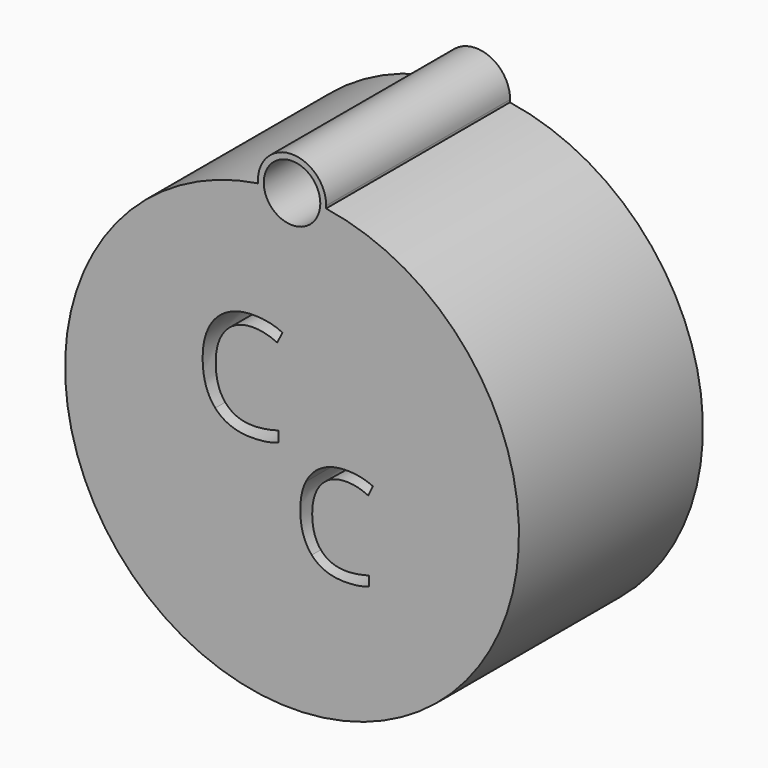
from build123d import *

# Parameters (mm, degrees)
F0_R     = 3.1220096901
F1_DEPTH = 25.4


with BuildPart() as f1:
    # F0 (on Front) → F1 (new body)
    with BuildSketch(Plane.XZ):
        with BuildLine():
            ThreePointArc((3.762887104, 24.7915036788), (0, 21.3018608193), (-3.762887104, 24.7915036788))
            ThreePointArc((-3.762887104, 24.7915036788), (0, -25.0754456394), (3.762887104, 24.7915036788))
        make_face()
        with BuildLine():
            add(Edge.make_bspline(
                [(8.4130730817, -1.6073568671), (7.2075554314, -1.0429237476), (6.0020377811, -1.0429237476)],
                knots=[0, 0, 0, 1, 1, 1], degree=2))
            add(Edge.make_bspline(
                [(6.0020377811, -1.0429237476), (4.2529919416, -1.0429237476), (3.2402642046, -2.2077929222)],
                knots=[0, 0, 0, 1, 1, 1], degree=2))
            add(Edge.make_bspline(
                [(3.2402642046, -2.2077929222), (2.2275364675, -3.3726620968), (2.2275364675, -5.3981175709)],
                knots=[0, 0, 0, 1, 1, 1], degree=2))
            add(Edge.make_bspline(
                [(2.2275364675, -5.3981175709), (2.2275364675, -7.479319526), (3.204261269, -8.6163154601)],
                knots=[0, 0, 0, 1, 1, 1], degree=2))
            add(Edge.make_bspline(
                [(3.204261269, -8.6163154601), (4.1809860704, -9.7533113943), (5.9881011609, -9.7533113943)],
                knots=[0, 0, 0, 1, 1, 1], degree=2))
            add(Edge.make_bspline(
                [(5.9881011609, -9.7533113943), (7.0983852396, -9.7533113943), (8.5222432735, -9.3537949476)],
                knots=[0, 0, 0, 1, 1, 1], degree=2))
            Line((8.5222432735, -9.3537949476), (8.5222432735, -10.4338830157))
            add(Edge.make_bspline(
                [(8.5222432735, -10.4338830157), (7.418927505, -10.8496588527), (5.7999567877, -10.8496588527)],
                knots=[0, 0, 0, 1, 1, 1], degree=2))
            add(Edge.make_bspline(
                [(5.7999567877, -10.8496588527), (3.4562818182, -10.8496588527), (2.1822424518, -9.4258008188)],
                knots=[0, 0, 0, 1, 1, 1], degree=2))
            add(Edge.make_bspline(
                [(2.1822424518, -9.4258008188), (0.9082030853, -8.0019427848), (0.9082030853, -5.3818581807)],
                knots=[0, 0, 0, 1, 1, 1], degree=2))
            add(Edge.make_bspline(
                [(0.9082030853, -5.3818581807), (0.9082030853, -3.741982533), (1.5214143756, -2.5085916423)],
                knots=[0, 0, 0, 1, 1, 1], degree=2))
            add(Edge.make_bspline(
                [(1.5214143756, -2.5085916423), (2.134625666, -1.2752007515), (3.2925265305, -0.6074043652)],
                knots=[0, 0, 0, 1, 1, 1], degree=2))
            add(Edge.make_bspline(
                [(3.2925265305, -0.6074043652), (4.450427395, 0.060392021), (6.0182971714, 0.060392021)],
                knots=[0, 0, 0, 1, 1, 1], degree=2))
            add(Edge.make_bspline(
                [(6.0182971714, 0.060392021), (7.6860460595, 0.060392021), (8.9356963405, -0.5481737292)],
                knots=[0, 0, 0, 1, 1, 1], degree=2))
            Line((8.9356963405, -0.5481737292), (8.4130730817, -1.6073568671))
        make_face(mode=Mode.SUBTRACT)
        with BuildLine():
            add(Edge.make_bspline(
                [(-1.6337582686, 9.9965584062), (-2.9586341146, 10.6168759988), (-4.2835099606, 10.6168759988)],
                knots=[0, 0, 0, 1, 1, 1], degree=2))
            add(Edge.make_bspline(
                [(-4.2835099606, 10.6168759988), (-6.2057286735, 10.6168759988), (-7.318726494, 9.3366732305)],
                knots=[0, 0, 0, 1, 1, 1], degree=2))
            add(Edge.make_bspline(
                [(-7.318726494, 9.3366732305), (-8.4317243145, 8.0564704622), (-8.4317243145, 5.8304748212)],
                knots=[0, 0, 0, 1, 1, 1], degree=2))
            add(Edge.make_bspline(
                [(-8.4317243145, 5.8304748212), (-8.4317243145, 3.5432132451), (-7.3582940771, 2.2936434443)],
                knots=[0, 0, 0, 1, 1, 1], degree=2))
            add(Edge.make_bspline(
                [(-7.3582940771, 2.2936434443), (-6.2848638396, 1.0440736435), (-4.2988264443, 1.0440736435)],
                knots=[0, 0, 0, 1, 1, 1], degree=2))
            add(Edge.make_bspline(
                [(-4.2988264443, 1.0440736435), (-3.0786132374, 1.0440736435), (-1.5137791458, 1.4831461782)],
                knots=[0, 0, 0, 1, 1, 1], degree=2))
            Line((-1.5137791458, 1.4831461782), (-1.5137791458, 0.2961186862))
            add(Edge.make_bspline(
                [(-1.5137791458, 0.2961186862), (-2.7263341108, -0.1608230796), (-4.5055989752, -0.1608230796)],
                knots=[0, 0, 0, 1, 1, 1], degree=2))
            add(Edge.make_bspline(
                [(-4.5055989752, -0.1608230796), (-7.0813209956, -0.1608230796), (-8.4815028868, 1.4040110121)],
                knots=[0, 0, 0, 1, 1, 1], degree=2))
            add(Edge.make_bspline(
                [(-8.4815028868, 1.4040110121), (-9.8816847779, 2.9688451038), (-9.8816847779, 5.8483440522)],
                knots=[0, 0, 0, 1, 1, 1], degree=2))
            add(Edge.make_bspline(
                [(-9.8816847779, 5.8483440522), (-9.8816847779, 7.6505836423), (-9.2077594921, 9.0060924558)],
                knots=[0, 0, 0, 1, 1, 1], degree=2))
            add(Edge.make_bspline(
                [(-9.2077594921, 9.0060924558), (-8.5338342063, 10.3616012693), (-7.2612896799, 11.0955161166)],
                knots=[0, 0, 0, 1, 1, 1], degree=2))
            add(Edge.make_bspline(
                [(-7.2612896799, 11.0955161166), (-5.9887451534, 11.8294309638), (-4.2656407295, 11.8294309638)],
                knots=[0, 0, 0, 1, 1, 1], degree=2))
            add(Edge.make_bspline(
                [(-4.2656407295, 11.8294309638), (-2.4327681719, 11.8294309638), (-1.0593901273, 11.1606111726)],
                knots=[0, 0, 0, 1, 1, 1], degree=2))
            Line((-1.0593901273, 11.1606111726), (-1.6337582686, 9.9965584062))
        make_face(mode=Mode.SUBTRACT)
        with BuildLine():
            ThreePointArc((3.7735848201, 25.0754456394), (-0.1420717056, 28.8463550821), (-3.762887104, 24.7915036788))
            ThreePointArc((-3.762887104, 24.7915036788), (0, 21.3018608193), (3.762887104, 24.7915036788))
            ThreePointArc((3.762887104, 24.7915036788), (3.7709094427, 24.9333739338), (3.7735848201, 25.0754456394))
        make_face()
        with Locations((0, 25.0754456394)):
            Circle(F0_R, mode=Mode.SUBTRACT)
    extrude(amount=F1_DEPTH)


solid = f1.part
